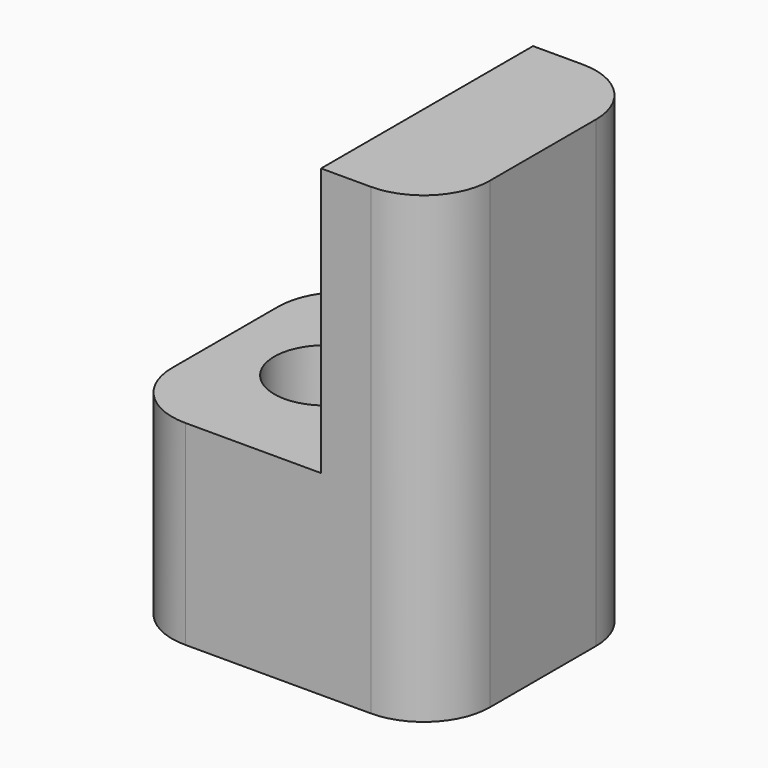
from build123d import *

# Parameters (mm, degrees)
F1_DEPTH = 400
F2_R     = 77
F3_DEPTH = 295.001
F4_R     = 100


with BuildPart() as f1:
    # F0 (on Front) → F1 (new body)
    with BuildSketch(Plane.XZ):
        Polygon((69.759124, 160.54423), (-235.240876, 160.54423), (-235.240876, -134.45577), (244.759124, -134.45577), (244.759124, 565.54423), (69.759124, 565.54423), align=None)
    extrude(amount=F1_DEPTH)

    # F2 (on face) → F3 (cut, through all)
    with BuildSketch(Plane.XY.offset(160.54423)):
        with Locations((-82.240876, -202)):
            Circle(F2_R)
    extrude(amount=-F3_DEPTH, mode=Mode.SUBTRACT)

    # F4
    f4_edges = [f1.edges().sort_by_distance(p)[0] for p in [
        (-235.240876, 0, 13.04423),
        (-235.240876, -400, 13.04423),
        (244.759124, -400, 215.54423),
        (244.759124, 0, 215.54423),
    ]]
    fillet(f4_edges, radius=F4_R)


solid = f1.part
